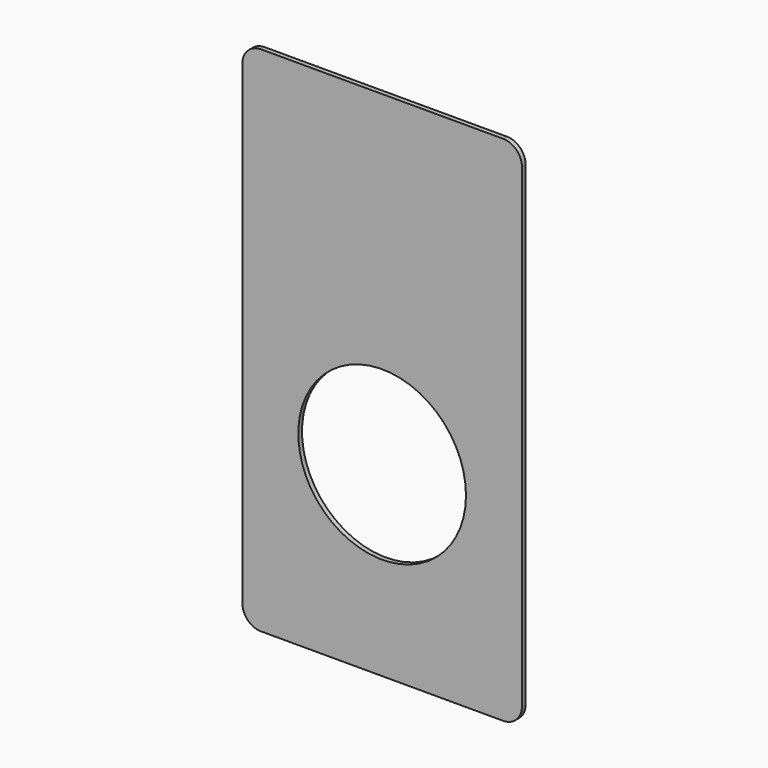
from build123d import *

# Parameters (mm, degrees)
F0_R     = 90
F1_DEPTH = 2.5


with BuildPart() as f1:
    # F0 (on Front) → F1 (new body, symmetric)
    with BuildSketch(Plane.XZ):
        with BuildLine():
            Line((130, 275), (-130, 275))
            ThreePointArc((-130, 275), (-144.142136, 269.142136), (-150, 255))
            Line((-150, 255), (-150, -255))
            ThreePointArc((-150, -255), (-144.142136, -269.142136), (-130, -275))
            Line((-130, -275), (130, -275))
            ThreePointArc((130, -275), (144.142136, -269.142136), (150, -255))
            Line((150, -255), (150, 255))
            ThreePointArc((150, 255), (144.142136, 269.142136), (130, 275))
        make_face()
        with Locations((0, -75)):
            Circle(F0_R, mode=Mode.SUBTRACT)
    extrude(amount=F1_DEPTH, both=True)


solid = f1.part
